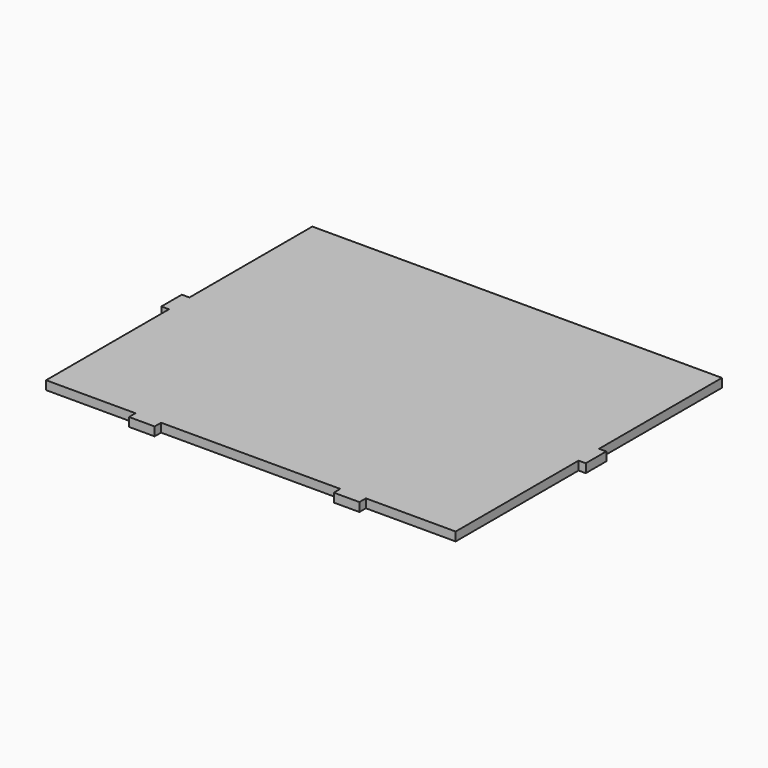
from build123d import *

# Parameters (mm, degrees)
F0_W     = 203.2
F0_H     = 165.1
F1_DEPTH = 4.3434
F3_DEPTH = 4.3434
F4_W     = 4.3434
F4_H     = 12.7
F5_DEPTH = 4.3434


with BuildPart() as f1:
    # F0 (on Top) → F1 (new body)
    with BuildSketch(Plane.XY):
        with Locations((45.995247, 32.638061)):
            Rectangle(F0_W, F0_H)
    extrude(amount=-F1_DEPTH)

    # F2 (on Top) → F3 (join)
    with BuildSketch(Plane.XY):
        Polygon((-4.896646, -49.593655), (-11.246646, -49.593655), (-11.246646, -53.937055), (-4.896646, -53.937055), (1.453354, -53.937055), (1.453354, -49.593655), align=None)
        Polygon((103.053354, -53.937055), (103.053354, -49.593655), (96.703354, -49.593655), (90.353354, -49.593655), (90.353354, -53.937055), (96.703354, -53.937055), align=None)
    extrude(amount=-F3_DEPTH)

    # F4 (on Top) → F5 (join)
    with BuildSketch(Plane.XY):
        with Locations((-57.213607, 32.638061)):
            Rectangle(F4_W, F4_H)
        with Locations((149.000803, 32.638061)):
            Rectangle(F4_W, F4_H)
    extrude(amount=-F5_DEPTH)


solid = f1.part
